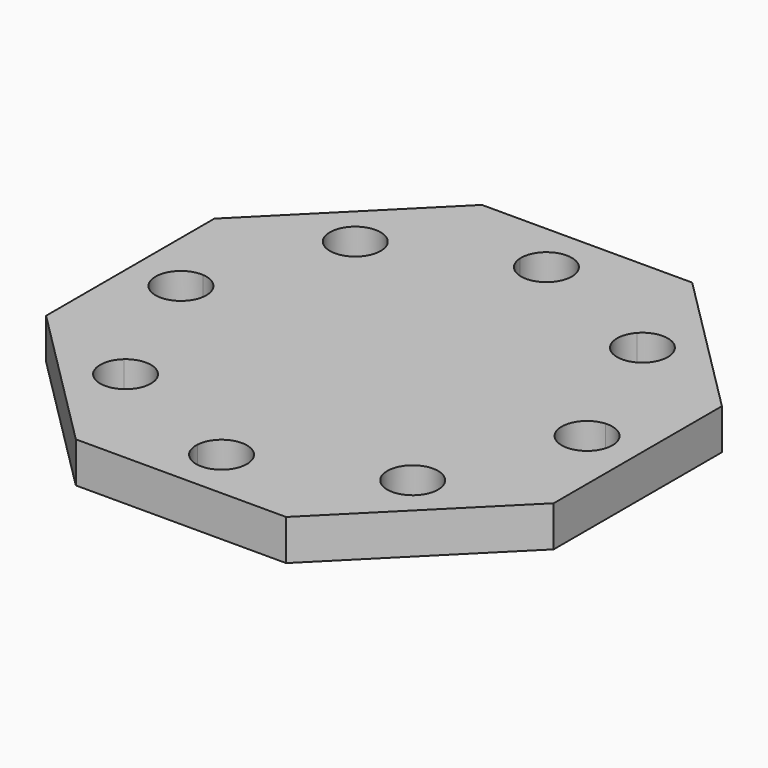
from build123d import *

# Parameters (mm, degrees)
F1_DEPTH = 8
F3_DEPTH = 25


with BuildPart() as f1:
    # F0 (on Top) → F1 (new body)
    with BuildSketch(Plane.XY):
        Polygon((20.7106781187, -50), (50, -20.7106781187), (50, 20.7106781187), (20.7106781187, 50), (-20.7106781187, 50), (-50, 20.7106781187), (-50, -20.7106781187), (-20.7106781187, -50), align=None)
    extrude(amount=F1_DEPTH)

    # F2 (on face) → F3 (cut)
    with BuildSketch(Plane.XY.offset(8)):
        with BuildLine():
            ThreePointArc((24.5349567524, 31.5917061451), (24.7489552671, 24.7485194141), (31.5921382283, 24.5344003832))
            ThreePointArc((31.5921382283, 24.5344003832), (28.2845203052, 28.2840221875), (24.5349567524, 31.5917061451))
        make_face()
        with BuildLine():
            ThreePointArc((24.5349567524, 31.5917061451), (28.2845203052, 28.2840221875), (31.5921382283, 24.5344003832))
            ThreePointArc((31.5921382283, 24.5344003832), (32.8418270546, 26.2270936053), (33.2845203052, 28.2840221875))
            ThreePointArc((33.2845203052, 28.2840221875), (30.052595846, 32.9609772741), (24.5349567524, 31.5917061451))
        make_face()
        with BuildLine():
            ThreePointArc((-4.9902248196, 39.6875), (0, 35), (4.9902248196, 39.6875))
            ThreePointArc((4.9902248196, 39.6875), (0, 40), (-4.9902248196, 39.6875))
        make_face()
        with BuildLine():
            ThreePointArc((-4.9902248196, 39.6875), (0, 40), (4.9902248196, 39.6875))
            ThreePointArc((4.9902248196, 39.6875), (4.9975556074, 39.8436735754), (5, 40))
            ThreePointArc((5, 40), (-0.1563264246, 44.9975556074), (-4.9902248196, 39.6875))
        make_face()
        with BuildLine():
            ThreePointArc((-31.5918062772, 24.5348278197), (-28.2841376224, 28.2844048719), (-24.5345293173, 31.5920380979))
            ThreePointArc((-24.5345293173, 31.5920380979), (-31.8196548252, 31.8199554809), (-31.5918062772, 24.5348278197))
        make_face()
        with BuildLine():
            ThreePointArc((-23.2841376224, 28.2844048719), (-23.607170575, 30.0524487732), (-24.5345293173, 31.5920380979))
            ThreePointArc((-24.5345293173, 31.5920380979), (-28.2841376224, 28.2844048719), (-31.5918062772, 24.5348278197))
            ThreePointArc((-31.5918062772, 24.5348278197), (-26.2272398702, 23.7270842076), (-23.2841376224, 28.2844048719))
        make_face()
        with BuildLine():
            ThreePointArc((-39.6875, -4.9902248196), (-40, 0), (-39.6875, 4.9902248196))
            ThreePointArc((-39.6875, 4.9902248196), (-45, 0), (-39.6875, -4.9902248196))
        make_face()
        with BuildLine():
            ThreePointArc((-35, 0), (-36.3556550657, 3.4232659844), (-39.6875, 4.9902248196))
            ThreePointArc((-39.6875, 4.9902248196), (-40, 0), (-39.6875, -4.9902248196))
            ThreePointArc((-39.6875, -4.9902248196), (-36.3556550657, -3.4232659844), (-35, 0))
        make_face()
        with BuildLine():
            ThreePointArc((-31.5921382283, -24.5344003832), (-31.8200853434, -31.8195249609), (-24.5349567524, -31.5917061451))
            ThreePointArc((-24.5349567524, -31.5917061451), (-28.2845203052, -28.2840221875), (-31.5921382283, -24.5344003832))
        make_face()
        with BuildLine():
            ThreePointArc((-31.5921382283, -24.5344003832), (-28.2845203052, -28.2840221875), (-24.5349567524, -31.5917061451))
            ThreePointArc((-24.5349567524, -31.5917061451), (-23.6075652186, -30.0520977283), (-23.2845203052, -28.2840221875))
            ThreePointArc((-23.2845203052, -28.2840221875), (-26.227591723, -23.7267154382), (-31.5921382283, -24.5344003832))
        make_face()
        with BuildLine():
            ThreePointArc((-4.9902248196, -39.6875), (0, -40), (4.9902248196, -39.6875))
            ThreePointArc((4.9902248196, -39.6875), (0, -35), (-4.9902248196, -39.6875))
        make_face()
        with BuildLine():
            ThreePointArc((5, -40), (4.9975556074, -39.8436735754), (4.9902248196, -39.6875))
            ThreePointArc((4.9902248196, -39.6875), (0, -40), (-4.9902248196, -39.6875))
            ThreePointArc((-4.9902248196, -39.6875), (-0.1563264246, -44.9975556074), (5, -40))
        make_face()
        with BuildLine():
            ThreePointArc((24.5344003832, -31.5921382283), (28.2840221875, -28.2845203052), (31.5917061451, -24.5349567524))
            ThreePointArc((31.5917061451, -24.5349567524), (24.7485194141, -24.7489552671), (24.5344003832, -31.5921382283))
        make_face()
        with BuildLine():
            ThreePointArc((33.2840221875, -28.2845203052), (32.8413470491, -26.2276318527), (31.5917061451, -24.5349567524))
            ThreePointArc((31.5917061451, -24.5349567524), (28.2840221875, -28.2845203052), (24.5344003832, -31.5921382283))
            ThreePointArc((24.5344003832, -31.5921382283), (30.052056545, -32.9614909605), (33.2840221875, -28.2845203052))
        make_face()
        with BuildLine():
            ThreePointArc((39.6875, -4.9902248196), (39.9217985567, -2.5), (40, 0))
            ThreePointArc((40, 0), (39.9217985567, 2.5), (39.6875, 4.9902248196))
            ThreePointArc((39.6875, 4.9902248196), (35, 0), (39.6875, -4.9902248196))
        make_face()
        with BuildLine():
            ThreePointArc((39.6875, 4.9902248196), (39.9217985567, 2.5), (40, 0))
            ThreePointArc((40, 0), (39.9217985567, -2.5), (39.6875, -4.9902248196))
            ThreePointArc((39.6875, -4.9902248196), (43.4232659844, -3.6443449343), (45, 0))
            ThreePointArc((45, 0), (43.4232659844, 3.6443449343), (39.6875, 4.9902248196))
        make_face()
    extrude(amount=-F3_DEPTH, mode=Mode.SUBTRACT)


solid = f1.part
